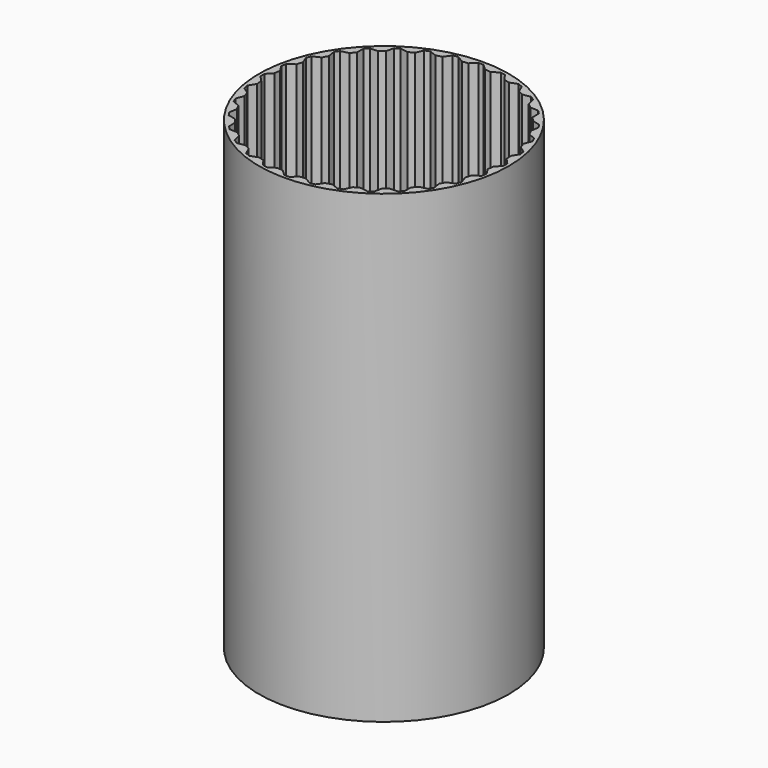
from build123d import *

# Parameters (mm, degrees)
F0_R     = 43
F0_R_2   = 40
F0_R_3   = 4.25
F1_DEPTH = 2
F2_DEPTH = 160
F4_DEPTH = 155


with BuildPart() as f1:
    # F0 (on Top) → F1 (new body)
    with BuildSketch(Plane.XY):
        Circle(F0_R)
        Circle(F0_R_2, mode=Mode.SUBTRACT)
        Circle(F0_R_2)
        Circle(F0_R_3, mode=Mode.SUBTRACT)
    extrude(amount=F1_DEPTH)

    # F0 (on Top) → F2 (join)
    with BuildSketch(Plane.XY):
        Circle(F0_R)
        Circle(F0_R_2, mode=Mode.SUBTRACT)
    extrude(amount=F2_DEPTH)

    # F3 (on face) → F4 (cut)
    with BuildSketch(Plane.XY.offset(160)):
        with BuildLine():
            ThreePointArc((-17.935173408, 35.7537348374), (-15.3073372946, 36.9551813005), (-12.5996256178, 37.9637910948))
            Line((-12.5996256178, 37.9637910948), (-15.1896329803, 38.9425798282))
            Line((-15.1896329803, 38.9425798282), (-16.7958697893, 38.2772547575))
            Line((-16.7958697893, 38.2772547575), (-17.935173408, 35.7537348374))
        make_face()
        with BuildLine():
            ThreePointArc((-10.6153464373, 38.5657156036), (-7.8036128806, 39.2314112161), (-4.9511591149, 39.6923925132))
            Line((-4.9511591149, 39.6923925132), (-7.300448003, 41.1576594658))
            Line((-7.300448003, 41.1576594658), (-9.0056199043, 40.8184796861))
            Line((-9.0056199043, 40.8184796861), (-10.6153464373, 38.5657156036))
        make_face()
        with BuildLine():
            Line((-0.8692890969, 41.7910733317), (-2.8875776562, 39.895637547))
            ThreePointArc((-2.8875776562, 39.895637547), (0, 40), (2.8875776562, 39.895637547))
            Line((2.8875776562, 39.895637547), (0.8692890969, 41.7910733317))
            Line((0.8692890969, 41.7910733317), (-0.8692890969, 41.7910733317))
        make_face()
        with BuildLine():
            Line((7.300448003, 41.1576594658), (4.9511591149, 39.6923925132))
            ThreePointArc((4.9511591149, 39.6923925132), (7.8036128806, 39.2314112161), (10.6153464373, 38.5657156036))
            Line((10.6153464373, 38.5657156036), (9.0056199043, 40.8184796861))
            Line((9.0056199043, 40.8184796861), (7.300448003, 41.1576594658))
        make_face()
        with BuildLine():
            Line((15.1896329803, 38.9425798282), (12.5996256178, 37.9637910948))
            ThreePointArc((12.5996256178, 37.9637910948), (15.3073372946, 36.9551813005), (17.935173408, 35.7537348374))
            Line((17.935173408, 35.7537348374), (16.7958697893, 38.2772547575))
            Line((16.7958697893, 38.2772547575), (15.1896329803, 38.9425798282))
        make_face()
        with BuildLine():
            ThreePointArc((-24.5657617227, 31.5677580924), (-22.2228093208, 33.2587844921), (-19.7638955741, 34.7762624751))
            Line((-19.7638955741, 34.7762624751), (-22.4950888807, 35.2309586869))
            Line((-22.4950888807, 35.2309586869), (-23.9406638174, 34.2650563947))
            Line((-23.9406638174, 34.2650563947), (-24.5657617227, 31.5677580924))
        make_face()
        with BuildLine():
            ThreePointArc((-30.2523015911, 26.1686501073), (-28.2842712475, 28.2842712475), (-26.1686501073, 30.2523015911))
            Line((-26.1686501073, 30.2523015911), (-28.9360711307, 30.1654315611))
            Line((-28.9360711307, 30.1654315611), (-30.1654315611, 28.9360711307))
            Line((-30.1654315611, 28.9360711307), (-30.2523015911, 26.1686501073))
        make_face()
        with BuildLine():
            ThreePointArc((-34.7762624751, 19.7638955741), (-33.2587844921, 22.2228093208), (-31.5677580924, 24.5657617227))
            Line((-31.5677580924, 24.5657617227), (-34.2650563947, 23.9406638174))
            Line((-34.2650563947, 23.9406638174), (-35.2309586869, 22.4950888807))
            Line((-35.2309586869, 22.4950888807), (-34.7762624751, 19.7638955741))
        make_face()
        with BuildLine():
            ThreePointArc((-37.9637910948, 12.5996256178), (-36.9551813005, 15.3073372946), (-35.7537348374, 17.935173408))
            Line((-35.7537348374, 17.935173408), (-38.2772547575, 16.7958697893))
            Line((-38.2772547575, 16.7958697893), (-38.9425798282, 15.1896329803))
            Line((-38.9425798282, 15.1896329803), (-37.9637910948, 12.5996256178))
        make_face()
        with BuildLine():
            ThreePointArc((-39.6923925132, 4.9511591149), (-39.2314112161, 7.8036128806), (-38.5657156036, 10.6153464373))
            Line((-38.5657156036, 10.6153464373), (-40.8184796861, 9.0056199043))
            Line((-40.8184796861, 9.0056199043), (-41.1576594658, 7.300448003))
            Line((-41.1576594658, 7.300448003), (-39.6923925132, 4.9511591149))
        make_face()
        with BuildLine():
            Line((22.4950888807, 35.2309586869), (19.7638955741, 34.7762624751))
            ThreePointArc((19.7638955741, 34.7762624751), (22.2228093208, 33.2587844921), (24.5657617227, 31.5677580924))
            Line((24.5657617227, 31.5677580924), (23.9406638174, 34.2650563947))
            Line((23.9406638174, 34.2650563947), (22.4950888807, 35.2309586869))
        make_face()
        with BuildLine():
            Line((28.9360711307, 30.1654315611), (26.1686501073, 30.2523015911))
            ThreePointArc((26.1686501073, 30.2523015911), (28.2842712475, 28.2842712475), (30.2523015911, 26.1686501073))
            Line((30.2523015911, 26.1686501073), (30.1654315611, 28.9360711307))
            Line((30.1654315611, 28.9360711307), (28.9360711307, 30.1654315611))
        make_face()
        with BuildLine():
            Line((34.2650563947, 23.9406638174), (31.5677580924, 24.5657617227))
            ThreePointArc((31.5677580924, 24.5657617227), (33.2587844921, 22.2228093208), (34.7762624751, 19.7638955741))
            Line((34.7762624751, 19.7638955741), (35.2309586869, 22.4950888807))
            Line((35.2309586869, 22.4950888807), (34.2650563947, 23.9406638174))
        make_face()
        with BuildLine():
            Line((38.2772547575, 16.7958697893), (35.7537348374, 17.935173408))
            ThreePointArc((35.7537348374, 17.935173408), (36.9551813005, 15.3073372946), (37.9637910948, 12.5996256178))
            Line((37.9637910948, 12.5996256178), (38.9425798282, 15.1896329803))
            Line((38.9425798282, 15.1896329803), (38.2772547575, 16.7958697893))
        make_face()
        with BuildLine():
            ThreePointArc((-39.895637547, -2.8875776562), (-40, 0), (-39.895637547, 2.8875776562))
            Line((-39.895637547, 2.8875776562), (-41.7910733317, 0.8692890969))
            Line((-41.7910733317, 0.8692890969), (-41.7910733317, -0.8692890969))
            Line((-41.7910733317, -0.8692890969), (-39.895637547, -2.8875776562))
        make_face()
        with BuildLine():
            ThreePointArc((-38.5657156036, -10.6153464373), (-39.2314112161, -7.8036128806), (-39.6923925132, -4.9511591149))
            Line((-39.6923925132, -4.9511591149), (-41.1576594658, -7.300448003))
            Line((-41.1576594658, -7.300448003), (-40.8184796861, -9.0056199043))
            Line((-40.8184796861, -9.0056199043), (-38.5657156036, -10.6153464373))
        make_face()
        with BuildLine():
            ThreePointArc((-35.7537348374, -17.935173408), (-36.9551813005, -15.3073372946), (-37.9637910948, -12.5996256178))
            Line((-37.9637910948, -12.5996256178), (-38.9425798282, -15.1896329803))
            Line((-38.9425798282, -15.1896329803), (-38.2772547575, -16.7958697893))
            Line((-38.2772547575, -16.7958697893), (-35.7537348374, -17.935173408))
        make_face()
        with BuildLine():
            ThreePointArc((-31.5677580924, -24.5657617227), (-33.2587844921, -22.2228093208), (-34.7762624751, -19.7638955741))
            Line((-34.7762624751, -19.7638955741), (-35.2309586869, -22.4950888807))
            Line((-35.2309586869, -22.4950888807), (-34.2650563947, -23.9406638174))
            Line((-34.2650563947, -23.9406638174), (-31.5677580924, -24.5657617227))
        make_face()
        with BuildLine():
            ThreePointArc((-26.1686501073, -30.2523015911), (-28.2842712475, -28.2842712475), (-30.2523015911, -26.1686501073))
            Line((-30.2523015911, -26.1686501073), (-30.1654315611, -28.9360711307))
            Line((-30.1654315611, -28.9360711307), (-28.9360711307, -30.1654315611))
            Line((-28.9360711307, -30.1654315611), (-26.1686501073, -30.2523015911))
        make_face()
        with BuildLine():
            ThreePointArc((-19.7638955741, -34.7762624751), (-22.2228093208, -33.2587844921), (-24.5657617227, -31.5677580924))
            Line((-24.5657617227, -31.5677580924), (-23.9406638174, -34.2650563947))
            Line((-23.9406638174, -34.2650563947), (-22.4950888807, -35.2309586869))
            Line((-22.4950888807, -35.2309586869), (-19.7638955741, -34.7762624751))
        make_face()
        with BuildLine():
            ThreePointArc((-12.5996256178, -37.9637910948), (-15.3073372946, -36.9551813005), (-17.935173408, -35.7537348374))
            Line((-17.935173408, -35.7537348374), (-16.7958697893, -38.2772547575))
            Line((-16.7958697893, -38.2772547575), (-15.1896329803, -38.9425798282))
            Line((-15.1896329803, -38.9425798282), (-12.5996256178, -37.9637910948))
        make_face()
        with BuildLine():
            ThreePointArc((-4.9511591149, -39.6923925132), (-7.8036128806, -39.2314112161), (-10.6153464373, -38.5657156036))
            Line((-10.6153464373, -38.5657156036), (-9.0056199043, -40.8184796861))
            Line((-9.0056199043, -40.8184796861), (-7.300448003, -41.1576594658))
            Line((-7.300448003, -41.1576594658), (-4.9511591149, -39.6923925132))
        make_face()
        with BuildLine():
            ThreePointArc((2.8875776562, -39.895637547), (0, -40), (-2.8875776562, -39.895637547))
            Line((-2.8875776562, -39.895637547), (-0.8692890969, -41.7910733317))
            Line((-0.8692890969, -41.7910733317), (0.8692890969, -41.7910733317))
            Line((0.8692890969, -41.7910733317), (2.8875776562, -39.895637547))
        make_face()
        with BuildLine():
            Line((9.0056199043, -40.8184796861), (10.6153464373, -38.5657156036))
            ThreePointArc((10.6153464373, -38.5657156036), (7.8036128806, -39.2314112161), (4.9511591149, -39.6923925132))
            Line((4.9511591149, -39.6923925132), (7.300448003, -41.1576594658))
            Line((7.300448003, -41.1576594658), (9.0056199043, -40.8184796861))
        make_face()
        with BuildLine():
            Line((16.7958697893, -38.2772547575), (17.935173408, -35.7537348374))
            ThreePointArc((17.935173408, -35.7537348374), (15.3073372946, -36.9551813005), (12.5996256178, -37.9637910948))
            Line((12.5996256178, -37.9637910948), (15.1896329803, -38.9425798282))
            Line((15.1896329803, -38.9425798282), (16.7958697893, -38.2772547575))
        make_face()
        with BuildLine():
            Line((40.8184796861, 9.0056199043), (38.5657156036, 10.6153464373))
            ThreePointArc((38.5657156036, 10.6153464373), (39.2314112161, 7.8036128806), (39.6923925132, 4.9511591149))
            Line((39.6923925132, 4.9511591149), (41.1576594658, 7.300448003))
            Line((41.1576594658, 7.300448003), (40.8184796861, 9.0056199043))
        make_face()
        with BuildLine():
            Line((41.7910733317, 0.8692890969), (39.895637547, 2.8875776562))
            ThreePointArc((39.895637547, 2.8875776562), (39.9739008722, 1.4447314839), (40, 0))
            ThreePointArc((40, 0), (39.9739008722, -1.4447314839), (39.895637547, -2.8875776562))
            Line((39.895637547, -2.8875776562), (41.7910733317, -0.8692890969))
            Line((41.7910733317, -0.8692890969), (41.7910733317, 0.8692890969))
        make_face()
        with BuildLine():
            Line((41.1576594658, -7.300448003), (39.6923925132, -4.9511591149))
            ThreePointArc((39.6923925132, -4.9511591149), (39.2314112161, -7.8036128806), (38.5657156036, -10.6153464373))
            Line((38.5657156036, -10.6153464373), (40.8184796861, -9.0056199043))
            Line((40.8184796861, -9.0056199043), (41.1576594658, -7.300448003))
        make_face()
        with BuildLine():
            Line((38.9425798282, -15.1896329803), (37.9637910948, -12.5996256178))
            ThreePointArc((37.9637910948, -12.5996256178), (36.9551813005, -15.3073372946), (35.7537348374, -17.935173408))
            Line((35.7537348374, -17.935173408), (38.2772547575, -16.7958697893))
            Line((38.2772547575, -16.7958697893), (38.9425798282, -15.1896329803))
        make_face()
        with BuildLine():
            Line((35.2309586869, -22.4950888807), (34.7762624751, -19.7638955741))
            ThreePointArc((34.7762624751, -19.7638955741), (33.2587844921, -22.2228093208), (31.5677580924, -24.5657617227))
            Line((31.5677580924, -24.5657617227), (34.2650563947, -23.9406638174))
            Line((34.2650563947, -23.9406638174), (35.2309586869, -22.4950888807))
        make_face()
        with BuildLine():
            Line((30.1654315611, -28.9360711307), (30.2523015911, -26.1686501073))
            ThreePointArc((30.2523015911, -26.1686501073), (28.2842712475, -28.2842712475), (26.1686501073, -30.2523015911))
            Line((26.1686501073, -30.2523015911), (28.9360711307, -30.1654315611))
            Line((28.9360711307, -30.1654315611), (30.1654315611, -28.9360711307))
        make_face()
        with BuildLine():
            Line((23.9406638174, -34.2650563947), (24.5657617227, -31.5677580924))
            ThreePointArc((24.5657617227, -31.5677580924), (22.2228093208, -33.2587844921), (19.7638955741, -34.7762624751))
            Line((19.7638955741, -34.7762624751), (22.4950888807, -35.2309586869))
            Line((22.4950888807, -35.2309586869), (23.9406638174, -34.2650563947))
        make_face()
    extrude(amount=-F4_DEPTH, mode=Mode.SUBTRACT)


solid = f1.part
